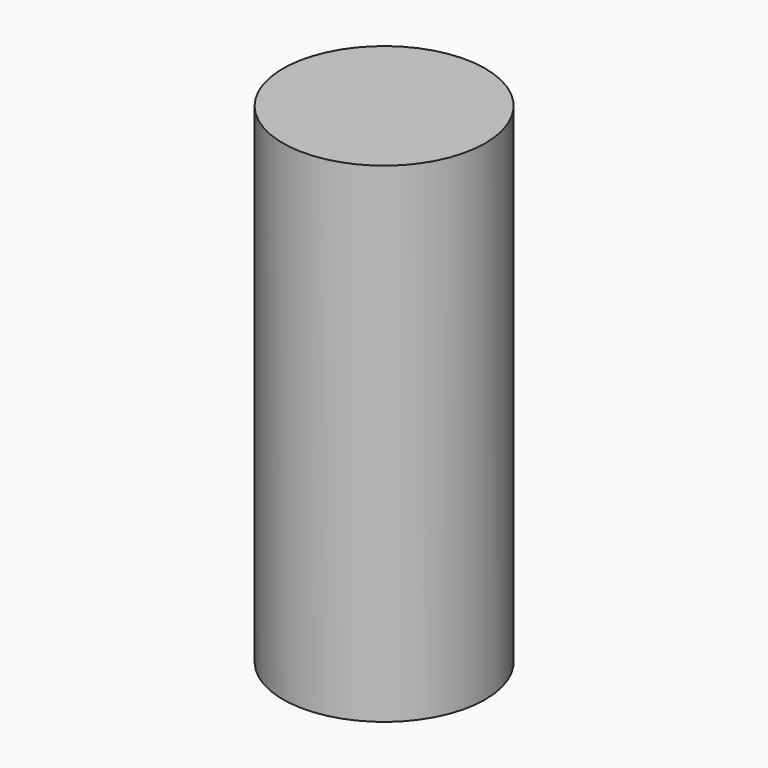
from build123d import *

# Parameters (mm, degrees)
CYLINDER_R     = 3.0988
CYLINDER_DEPTH = 15


with BuildPart() as part:
    # Cylinder → Cylinder (new body)
    with BuildSketch(Plane.XY.offset(-2.5)):
        Circle(CYLINDER_R)
    extrude(amount=CYLINDER_DEPTH)


solid = part.part
